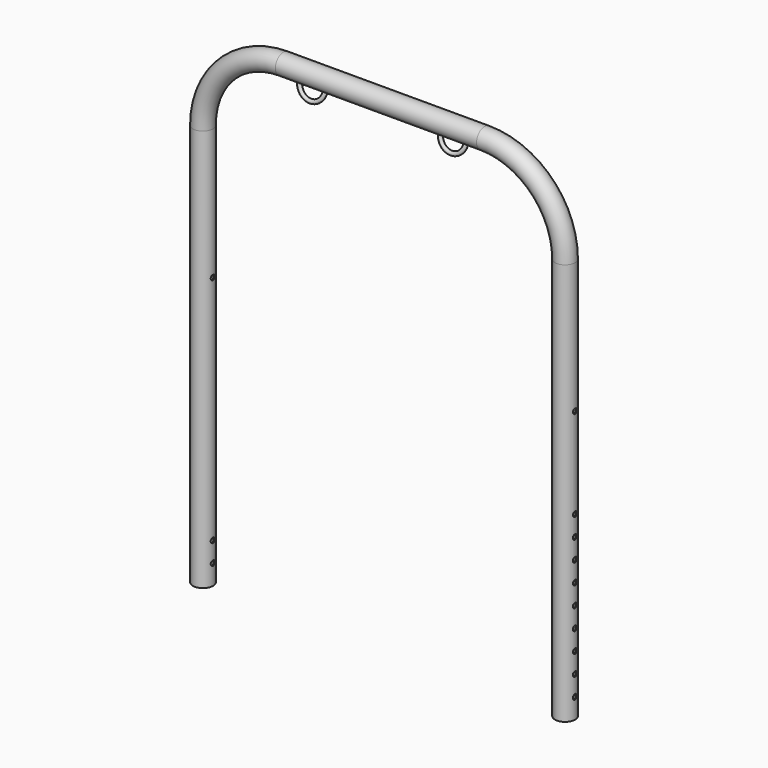
from build123d import *

# Parameters (mm, degrees)
F1_R           = 12.7
F7_DEPTH       = 601.98
F7_DEPTH_BACK  = 101.6
F9_DEPTH       = 19.05
F9_DEPTH_BACK  = 840.74
F10_R          = 3.175
F11_DEPTH      = 19.05
F11_DEPTH_BACK = 693.42
F17_R          = 2.54
F20_R          = 11.43
F21_DEPTH      = 508
F23_DEPTH      = 25.4
F26_DEPTH      = 25.4


with BuildPart() as f2:
    # F2: sweep along a path in F0
    with BuildLine(Plane.XZ) as f2_path:
        Line((-228.6, 0), (-228.6, 508))
        ThreePointArc((-228.6, 508), (-198.8420489686, 579.8420489686), (-127, 609.6))
        Line((-127, 609.6), (0, 609.6))
    # F1 (on Top) → F2 (sweep)
    with BuildSketch(Plane.XY):
        with Locations((-228.6, 0)):
            Circle(F1_R)
    sweep(path=f2_path.line)

    # F3: F2 across plane


with BuildPart() as f2_1:
    add(f2.part)
    add(f2.part.mirror(Plane.YZ))

    # F6 (on offset) → F7 (cut, two sides)
    with BuildSketch(Plane.YZ.offset(222.25)) as f7_sk:
        with BuildLine():
            ThreePointArc((0, 47.625), (2.2450640303, 48.5549359697), (3.175, 50.8))
            ThreePointArc((3.175, 50.8), (-2.2450640303, 53.0450640303), (0, 47.625))
        make_face()
    extrude(amount=-F7_DEPTH, mode=Mode.SUBTRACT)
    extrude(f7_sk.sketch, amount=F7_DEPTH_BACK, mode=Mode.SUBTRACT)

    # F8 (on offset) → F9 (cut, two sides)
    with BuildSketch(Plane.YZ.offset(228.6)) as f9_sk:
        with BuildLine():
            ThreePointArc((0, 339.725), (2.2450640303, 340.6549359697), (3.175, 342.9))
            ThreePointArc((3.175, 342.9), (-2.2450640303, 345.1450640303), (0, 339.725))
        make_face()
    extrude(amount=F9_DEPTH, mode=Mode.SUBTRACT)
    extrude(f9_sk.sketch, amount=-F9_DEPTH_BACK, mode=Mode.SUBTRACT)

    # F10 (on offset) → F11 (cut, two sides)
    with BuildSketch(Plane.YZ.offset(228.6)) as f11_sk:
        with Locations((0, 25.4)):
            Circle(F10_R)
    extrude(amount=F11_DEPTH, mode=Mode.SUBTRACT)
    extrude(f11_sk.sketch, amount=-F11_DEPTH_BACK, mode=Mode.SUBTRACT)

    # F18: sweep along a path in F16
    with BuildLine(Plane(origin=(0, -116.098716352, 23.5997792866), x_dir=(-1, 0, 0), z_dir=(0, 0.979958943, -0.1991995734))) as f18_path:
        CenterArc((88.9, 585.7501029968), 15.875, 0, 360)
    # F17 (on face) → F18 (sweep)
    with BuildSketch(Plane(origin=(0, 116.098716352, 571.1456778858), x_dir=(1, 0, 0), z_dir=(0, -0.1991995734, -0.979958943))):
        with Locations((-73.025, 120.7691282034)):
            Circle(F17_R)
    sweep(path=f18_path.line)

    # F19: sweep along a path in F16
    with BuildLine(Plane(origin=(0, -116.098716352, 23.5997792866), x_dir=(-1, 0, 0), z_dir=(0, 0.979958943, -0.1991995734))) as f19_path:
        CenterArc((-88.9, 585.7501029968), 15.875, 0, 360)
    # F17 (on face) → F19 (sweep)
    with BuildSketch(Plane(origin=(0, 116.098716352, 571.1456778858), x_dir=(1, 0, 0), z_dir=(0, -0.1991995734, -0.979958943))):
        with BuildLine():
            ThreePointArc((75.57262, 120.7691282034), (73.03262, 123.3091282034), (70.49262, 120.7691282034))
            ThreePointArc((70.49262, 120.7691282034), (73.03262, 118.2291282034), (75.57262, 120.7691282034))
        make_face()
    sweep(path=f19_path.line)

    # F20 (on Top) → F21 (cut)
    with BuildSketch(Plane.XY):
        with BuildLine():
            ThreePointArc((217.17, 0), (228.6, -11.43), (240.03, 0))
            ThreePointArc((240.03, 0), (228.6, 11.43), (217.17, 0))
        make_face()
        with Locations((-228.6, 0)):
            Circle(F20_R)
    extrude(amount=F21_DEPTH, mode=Mode.SUBTRACT)

    # F22 (on offset) → F23 (cut)
    with BuildSketch(Plane.YZ.offset(228.6)):
        with BuildLine():
            ThreePointArc((0, 79.375), (-3.175, 76.2), (0, 73.025))
            Line((0, 73.025), (0, 76.2))
            Line((0, 76.2), (0, 79.375))
        make_face()
        with BuildLine():
            ThreePointArc((3.175, 228.6), (-2.2450640303, 230.8450640303), (0, 225.425))
            ThreePointArc((0, 225.425), (2.2450640303, 226.3549359697), (3.175, 228.6))
        make_face()
        with BuildLine():
            ThreePointArc((0, 206.375), (-3.175, 203.2), (0, 200.025))
            Line((0, 200.025), (0, 203.2))
            Line((0, 203.2), (0, 206.375))
        make_face()
        with BuildLine():
            Line((0, 203.2), (0, 200.025))
            ThreePointArc((0, 200.025), (2.2450640303, 200.9549359697), (3.175, 203.2))
            ThreePointArc((3.175, 203.2), (2.2450640303, 205.4450640303), (0, 206.375))
            Line((0, 206.375), (0, 203.2))
        make_face()
        with BuildLine():
            ThreePointArc((0, 180.975), (-3.175, 177.8), (0, 174.625))
            Line((0, 174.625), (0, 177.8))
            Line((0, 177.8), (0, 180.975))
        make_face()
        with BuildLine():
            Line((0, 177.8), (0, 174.625))
            ThreePointArc((0, 174.625), (2.2450640303, 175.5549359697), (3.175, 177.8))
            ThreePointArc((3.175, 177.8), (2.2450640303, 180.0450640303), (0, 180.975))
            Line((0, 180.975), (0, 177.8))
        make_face()
        with BuildLine():
            ThreePointArc((0, 155.575), (-3.175, 152.4), (0, 149.225))
            Line((0, 149.225), (0, 152.4))
            Line((0, 152.4), (0, 155.575))
        make_face()
        with BuildLine():
            Line((0, 152.4), (0, 149.225))
            ThreePointArc((0, 149.225), (2.2450640303, 150.1549359697), (3.175, 152.4))
            ThreePointArc((3.175, 152.4), (2.2450640303, 154.6450640303), (0, 155.575))
            Line((0, 155.575), (0, 152.4))
        make_face()
        with BuildLine():
            ThreePointArc((0, 130.175), (-3.175, 127), (0, 123.825))
            Line((0, 123.825), (0, 127))
            Line((0, 127), (0, 130.175))
        make_face()
        with BuildLine():
            Line((0, 127), (0, 123.825))
            ThreePointArc((0, 123.825), (2.2450640303, 124.7549359697), (3.175, 127))
            ThreePointArc((3.175, 127), (2.2450640303, 129.2450640303), (0, 130.175))
            Line((0, 130.175), (0, 127))
        make_face()
        with BuildLine():
            ThreePointArc((0, 104.775), (-3.175, 101.6), (0, 98.425))
            Line((0, 98.425), (0, 101.6))
            Line((0, 101.6), (0, 104.775))
        make_face()
        with BuildLine():
            Line((0, 101.6), (0, 98.425))
            ThreePointArc((0, 98.425), (2.2450640303, 99.3549359697), (3.175, 101.6))
            ThreePointArc((3.175, 101.6), (2.2450640303, 103.8450640303), (0, 104.775))
            Line((0, 104.775), (0, 101.6))
        make_face()
        with BuildLine():
            Line((0, 76.2), (0, 73.025))
            ThreePointArc((0, 73.025), (2.2450640303, 73.9549359697), (3.175, 76.2))
            ThreePointArc((3.175, 76.2), (2.2450640303, 78.4450640303), (0, 79.375))
            Line((0, 79.375), (0, 76.2))
        make_face()
    extrude(amount=F23_DEPTH, mode=Mode.SUBTRACT)

    # F25 (on offset) → F26 (cut)
    with BuildSketch(Plane.YZ.offset(-228.6)):
        with BuildLine():
            ThreePointArc((0, 76.4866399392), (-3.175, 73.3116399392), (0, 70.1366399392))
            Line((0, 70.1366399392), (0, 73.3116399392))
            Line((0, 73.3116399392), (0, 76.4866399392))
        make_face()
        with BuildLine():
            ThreePointArc((3.175, 225.7116399392), (-2.2450640303, 227.9567039695), (0, 222.5366399392))
            ThreePointArc((0, 222.5366399392), (2.2450640303, 223.466575909), (3.175, 225.7116399392))
        make_face()
        with BuildLine():
            ThreePointArc((0, 203.4866399392), (-3.175, 200.3116399392), (0, 197.1366399392))
            Line((0, 197.1366399392), (0, 200.3116399392))
            Line((0, 200.3116399392), (0, 203.4866399392))
        make_face()
        with BuildLine():
            Line((0, 200.3116399392), (0, 197.1366399392))
            ThreePointArc((0, 197.1366399392), (2.2450640303, 198.066575909), (3.175, 200.3116399392))
            ThreePointArc((3.175, 200.3116399392), (2.2450640303, 202.5567039695), (0, 203.4866399392))
            Line((0, 203.4866399392), (0, 200.3116399392))
        make_face()
        with BuildLine():
            ThreePointArc((0, 178.0866399392), (-3.175, 174.9116399392), (0, 171.7366399392))
            Line((0, 171.7366399392), (0, 174.9116399392))
            Line((0, 174.9116399392), (0, 178.0866399392))
        make_face()
        with BuildLine():
            Line((0, 174.9116399392), (0, 171.7366399392))
            ThreePointArc((0, 171.7366399392), (2.2450640303, 172.666575909), (3.175, 174.9116399392))
            ThreePointArc((3.175, 174.9116399392), (2.2450640303, 177.1567039695), (0, 178.0866399392))
            Line((0, 178.0866399392), (0, 174.9116399392))
        make_face()
        with BuildLine():
            ThreePointArc((0, 152.6866399392), (-3.175, 149.5116399392), (0, 146.3366399392))
            Line((0, 146.3366399392), (0, 149.5116399392))
            Line((0, 149.5116399392), (0, 152.6866399392))
        make_face()
        with BuildLine():
            Line((0, 149.5116399392), (0, 146.3366399392))
            ThreePointArc((0, 146.3366399392), (2.2450640303, 147.266575909), (3.175, 149.5116399392))
            ThreePointArc((3.175, 149.5116399392), (2.2450640303, 151.7567039695), (0, 152.6866399392))
            Line((0, 152.6866399392), (0, 149.5116399392))
        make_face()
        with BuildLine():
            ThreePointArc((0, 127.2866399392), (-3.175, 124.1116399392), (0, 120.9366399392))
            Line((0, 120.9366399392), (0, 124.1116399392))
            Line((0, 124.1116399392), (0, 127.2866399392))
        make_face()
        with BuildLine():
            Line((0, 124.1116399392), (0, 120.9366399392))
            ThreePointArc((0, 120.9366399392), (2.2450640303, 121.866575909), (3.175, 124.1116399392))
            ThreePointArc((3.175, 124.1116399392), (2.2450640303, 126.3567039695), (0, 127.2866399392))
            Line((0, 127.2866399392), (0, 124.1116399392))
        make_face()
        with BuildLine():
            ThreePointArc((0, 101.8866399392), (-3.175, 98.7116399392), (0, 95.5366399392))
            Line((0, 95.5366399392), (0, 98.7116399392))
            Line((0, 98.7116399392), (0, 101.8866399392))
        make_face()
        with BuildLine():
            Line((0, 98.7116399392), (0, 95.5366399392))
            ThreePointArc((0, 95.5366399392), (2.2450640303, 96.466575909), (3.175, 98.7116399392))
            ThreePointArc((3.175, 98.7116399392), (2.2450640303, 100.9567039695), (0, 101.8866399392))
            Line((0, 101.8866399392), (0, 98.7116399392))
        make_face()
        with BuildLine():
            Line((0, 73.3116399392), (0, 70.1366399392))
            ThreePointArc((0, 70.1366399392), (2.2450640303, 71.066575909), (3.175, 73.3116399392))
            ThreePointArc((3.175, 73.3116399392), (2.2450640303, 75.5567039695), (0, 76.4866399392))
            Line((0, 76.4866399392), (0, 73.3116399392))
        make_face()
    extrude(amount=-F26_DEPTH, mode=Mode.SUBTRACT)


solid = f2_1.part
